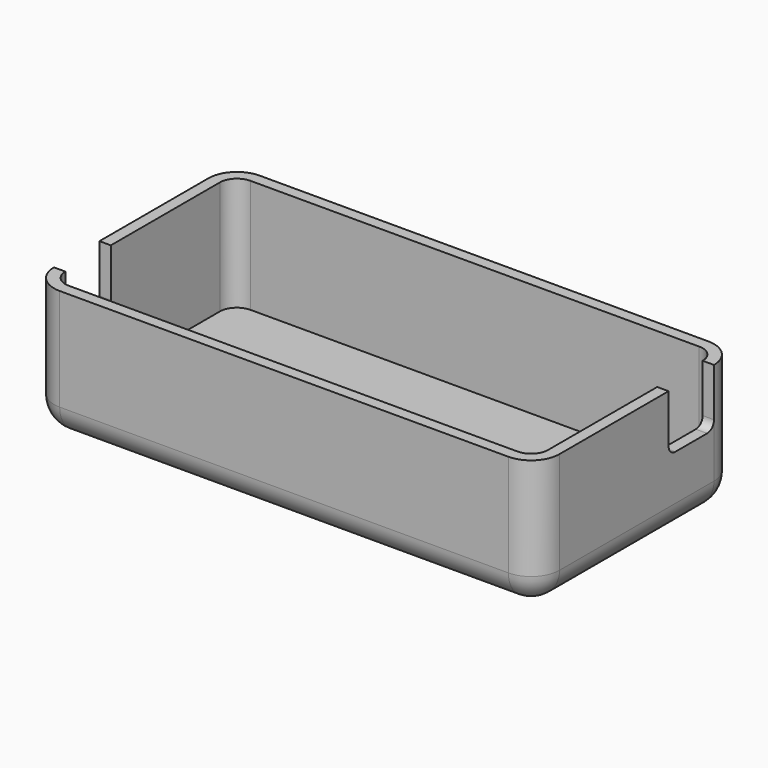
from build123d import *

# Parameters (mm, degrees)
F0_W      = 89
F0_H      = 44
F0_W_2    = 85
F0_H_2    = 40
F1_DEPTH  = 20
F2_W      = 89
F2_H      = 44
F2_W_2    = 85
F2_H_2    = 40
F3_DEPTH  = 3
F4_R      = 5
F5_R      = 3
F6_W      = 10
F6_H      = 10
F7_DEPTH  = 3
F8_W      = 10
F8_H      = 10
F9_DEPTH  = 3
F10_R     = 1.5
F12_DEPTH = 25


with BuildPart() as f1:
    # F0 (on Top) → F1 (new body)
    with BuildSketch(Plane.XY):
        with Locations((0.5476979613, -10.7853626366)):
            Rectangle(F0_W, F0_H)
        with Locations((0.5476979613, -10.7853626366)):
            Rectangle(F0_W_2, F0_H_2, mode=Mode.SUBTRACT)
    extrude(amount=F1_DEPTH)

    # F2 (on face) → F3 (join)
    with BuildSketch(Plane(origin=(0, 0, 0), x_dir=(1, 0, 0), z_dir=(0, 0, -1))):
        with Locations((0.5476979613, 10.7853626366)):
            Rectangle(F2_W, F2_H)
        with Locations((0.5476979613, 10.7853626366)):
            Rectangle(F2_W_2, F2_H_2, mode=Mode.SUBTRACT)
        with Locations((0.5476979613, 10.7853626366)):
            Rectangle(F2_W_2, F2_H_2)
    extrude(amount=F3_DEPTH)

    # F4
    f4_edges = [f1.edges().sort_by_distance(p)[0] for p in [
        (-43.952302, -32.785363, 8.5),
        (45.047698, -32.785363, 8.5),
        (45.047698, 11.214637, 8.5),
        (-43.952302, 11.214637, 8.5),
        (-43.952302, -10.785363, -3),
        (0.547698, 11.214637, -3),
        (45.047698, -10.785363, -3),
        (0.547698, -32.785363, -3),
    ]]
    fillet(f4_edges, radius=F4_R)

    # F5
    f5_edges = [f1.edges().sort_by_distance(p)[0] for p in [
        (-41.952302, 9.214637, 10),
        (-41.952302, -30.785363, 10),
        (43.047698, 9.214637, 10),
        (43.047698, -30.785363, 10),
    ]]
    fillet(f5_edges, radius=F5_R)

    # F6 (on face) → F7 (cut)
    with BuildSketch(Plane.YZ.offset(45.0476979613)):
        with Locations((1.2146373634, 15)):
            Rectangle(F6_W, F6_H)
    extrude(amount=-F7_DEPTH, mode=Mode.SUBTRACT)

    # F8 (on face) → F9 (cut)
    with BuildSketch(Plane(origin=(-43.9523020387, 0, 0), x_dir=(0, -1, 0), z_dir=(-1, 0, 0))):
        with Locations((22.7853626366, 15)):
            Rectangle(F8_W, F8_H)
    extrude(amount=-F9_DEPTH, mode=Mode.SUBTRACT)

    # F10
    f10_edges = [f1.edges().sort_by_distance(p)[0] for p in [
        (44.047698, 6.214637, 10),
        (44.047698, -3.785363, 10),
        (-42.952302, -27.785363, 10),
        (-42.952302, -17.785363, 10),
    ]]
    fillet(f10_edges, radius=F10_R)

    # F11 (on face) → F12 (cut)
    with BuildSketch(Plane(origin=(0, 0, -3), x_dir=(1, 0, 0), z_dir=(0, 0, -1))):
        with BuildLine():
            ThreePointArc((18.5476979613, 12.7853626366), (16.9367852579, 16.6744499331), (13.0476979613, 18.2853626366))
            ThreePointArc((13.0476979613, 18.2853626366), (9.1586106648, 8.89627534), (18.5476979613, 12.7853626366))
        make_face()
    extrude(amount=-F12_DEPTH, mode=Mode.SUBTRACT)


with BuildPart() as f13_1:
    # F13: copy of F1
    add(f1.part.moved(Location((0, 0, 30))))


solid = f1.part
